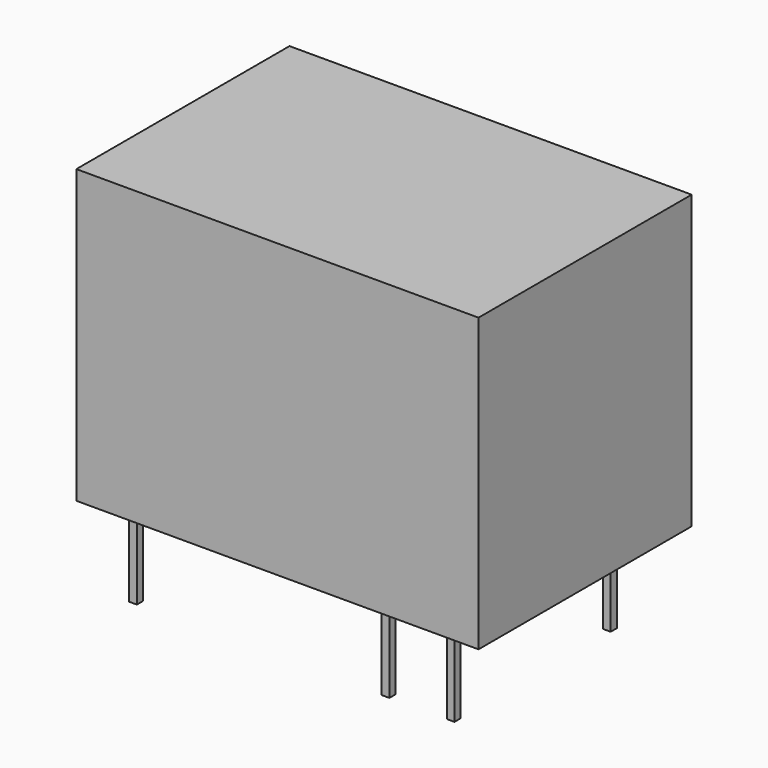
from build123d import *

# Parameters (mm, degrees)
SKETCH_W     = 15.7
SKETCH_H     = 10.4
PAD_DEPTH    = 11.4
SKETCH001_W  = 0.3
SKETCH001_H  = 0.3
PAD001_DEPTH = 3.6


with BuildPart() as pad:
    # Sketch → Pad (new body)
    with BuildSketch(Plane.XY):
        with Locations((6.6, 3.85)):
            Rectangle(SKETCH_W, SKETCH_H)
    extrude(amount=PAD_DEPTH)


with BuildPart() as pad001:
    # Sketch001 → Pad001 (new body)
    with BuildSketch(Plane.XY):
        Rectangle(SKETCH001_W, SKETCH001_H)
        with Locations((9.86, 0)):
            Rectangle(SKETCH001_W, SKETCH001_H)
        with Locations((0, 7.62)):
            Rectangle(SKETCH001_W, SKETCH001_H)
        with Locations((9.86, 7.62)):
            Rectangle(SKETCH001_W, SKETCH001_H)
        with Locations((12.4, 0.001869)):
            Rectangle(SKETCH001_W, SKETCH001_H)
        with Locations((12.4, 7.621869)):
            Rectangle(SKETCH001_W, SKETCH001_H)
    extrude(amount=-PAD001_DEPTH)


solid = Compound([pad.part, pad001.part])
